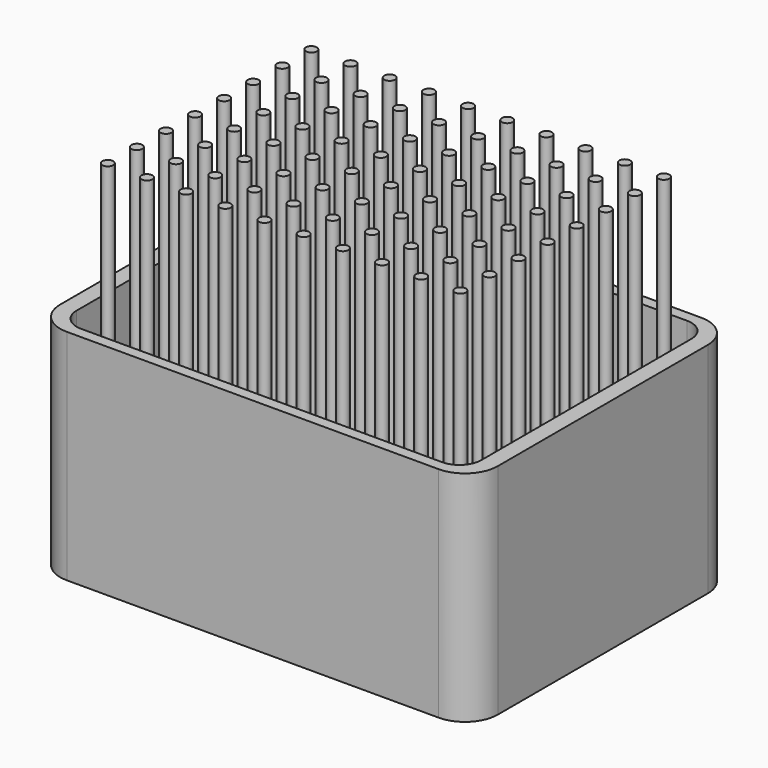
from build123d import *

# Parameters (mm, degrees)
F1_DEPTH = 6.35
F3_DEPTH = 50.8
F5_DEPTH = 76.2
F6_R     = 1.27
F7_DEPTH = 76.2


with BuildPart() as f1:
    # F0 (on Top) → F1 (new body)
    with BuildSketch(Plane.XY):
        with BuildLine():
            Line((43.18, 38.1), (-43.18, 38.1))
            ThreePointArc((-43.18, 38.1), (-48.5681536726, 35.8681536726), (-50.8, 30.48))
            Line((-50.8, 30.48), (-50.8, -30.48))
            ThreePointArc((-50.8, -30.48), (-48.5681536726, -35.8681536726), (-43.18, -38.1))
            Line((-43.18, -38.1), (43.18, -38.1))
            ThreePointArc((43.18, -38.1), (48.5681536726, -35.8681536726), (50.8, -30.48))
            Line((50.8, -30.48), (50.8, 30.48))
            ThreePointArc((50.8, 30.48), (48.5681536726, 35.8681536726), (43.18, 38.1))
        make_face()
    extrude(amount=F1_DEPTH)

    # F2 (on Top) → F3 (join)
    with BuildSketch(Plane.XY):
        with BuildLine():
            Line((-50.8, 30.48), (-50.8, -30.48))
            ThreePointArc((-50.8, -30.48), (-48.5681536726, -35.8681536726), (-43.18, -38.1))
            Line((-43.18, -38.1), (43.18, -38.1))
            ThreePointArc((43.18, -38.1), (48.5681536726, -35.8681536726), (50.8, -30.48))
            Line((50.8, -30.48), (50.8, 30.48))
            ThreePointArc((50.8, 30.48), (48.5681536726, 35.8681536726), (43.18, 38.1))
            Line((43.18, 38.1), (-43.18, 38.1))
            ThreePointArc((-43.18, 38.1), (-48.5681536726, 35.8681536726), (-50.8, 30.48))
        make_face()
        with BuildLine():
            Line((-46.99, -30.48), (-46.99, 30.48))
            ThreePointArc((-46.99, 30.48), (-45.5021024484, 34.0721024484), (-41.91, 35.56))
            Line((-41.91, 35.56), (41.91, 35.56))
            ThreePointArc((41.91, 35.56), (45.5021024484, 34.0721024484), (46.99, 30.48))
            Line((46.99, 30.48), (46.99, -30.48))
            ThreePointArc((46.99, -30.48), (45.5021024484, -34.0721024484), (41.91, -35.56))
            Line((41.91, -35.56), (-41.91, -35.56))
            ThreePointArc((-41.91, -35.56), (-45.5021024484, -34.0721024484), (-46.99, -30.48))
        make_face(mode=Mode.SUBTRACT)
    extrude(amount=F3_DEPTH)

    # F4 (on face) → F5 (join)
    with BuildSketch(Plane.XY.offset(6.35)):
        with BuildLine():
            Line((41.91, 35.56), (-41.91, 35.56))
            ThreePointArc((-41.91, 35.56), (-45.5021024484, 34.0721024484), (-46.99, 30.48))
            Line((-46.99, 30.48), (-46.99, -30.48))
            ThreePointArc((-46.99, -30.48), (-45.5021024484, -34.0721024484), (-41.91, -35.56))
            Line((-41.91, -35.56), (41.91, -35.56))
            ThreePointArc((41.91, -35.56), (45.5021024484, -34.0721024484), (46.99, -30.48))
            Line((46.99, -30.48), (46.99, 30.48))
            ThreePointArc((46.99, 30.48), (45.5021024484, 34.0721024484), (41.91, 35.56))
        make_face()
    extrude(amount=F5_DEPTH)

    # F6 (on face) → F7 (cut)
    with BuildSketch(Plane.XY.offset(82.55)):
        with BuildLine():
            Line((46.99, -30.48), (46.99, 30.48))
            ThreePointArc((46.99, 30.48), (45.5021024484, 34.0721024484), (41.91, 35.56))
            Line((41.91, 35.56), (-41.91, 35.56))
            ThreePointArc((-41.91, 35.56), (-45.5021024484, 34.0721024484), (-46.99, 30.48))
            Line((-46.99, 30.48), (-46.99, -30.48))
            ThreePointArc((-46.99, -30.48), (-45.5021024484, -34.0721024484), (-41.91, -35.56))
            Line((-41.91, -35.56), (41.91, -35.56))
            ThreePointArc((41.91, -35.56), (45.5021024484, -34.0721024484), (46.99, -30.48))
        make_face()
        with Locations((-40.6371347628, -29.3689621186)):
            Circle(F6_R, mode=Mode.SUBTRACT)
        with Locations((-31.6196572232, -29.2684558051)):
            Circle(F6_R, mode=Mode.SUBTRACT)
        with Locations((-40.5106123023, -21.0874684322)):
            Circle(F6_R, mode=Mode.SUBTRACT)
        with Locations((-31.4931347628, -20.9869621186)):
            Circle(F6_R, mode=Mode.SUBTRACT)
        with Locations((-22.6021796837, -29.1679494915)):
            Circle(F6_R, mode=Mode.SUBTRACT)
        with Locations((-13.5847021441, -29.0674431779)):
            Circle(F6_R, mode=Mode.SUBTRACT)
        with Locations((-4.5672246046, -28.9669368644)):
            Circle(F6_R, mode=Mode.SUBTRACT)
        with Locations((-22.4756572232, -20.8864558051)):
            Circle(F6_R, mode=Mode.SUBTRACT)
        with Locations((-13.4581796837, -20.7859494915)):
            Circle(F6_R, mode=Mode.SUBTRACT)
        with Locations((-4.4407021441, -20.6854431779)):
            Circle(F6_R, mode=Mode.SUBTRACT)
        with Locations((-40.3840898418, -12.8059747458)):
            Circle(F6_R, mode=Mode.SUBTRACT)
        with Locations((-31.3666123023, -12.7054684322)):
            Circle(F6_R, mode=Mode.SUBTRACT)
        with Locations((-40.2575673814, -4.5244810593)):
            Circle(F6_R, mode=Mode.SUBTRACT)
        with Locations((-31.2400898418, -4.4239747458)):
            Circle(F6_R, mode=Mode.SUBTRACT)
        with Locations((-22.3491347628, -12.6049621186)):
            Circle(F6_R, mode=Mode.SUBTRACT)
        with Locations((-13.3316572232, -12.5044558051)):
            Circle(F6_R, mode=Mode.SUBTRACT)
        with Locations((-4.3141796837, -12.4039494915)):
            Circle(F6_R, mode=Mode.SUBTRACT)
        with Locations((-22.2226123023, -4.3234684322)):
            Circle(F6_R, mode=Mode.SUBTRACT)
        with Locations((-13.2051347628, -4.2229621186)):
            Circle(F6_R, mode=Mode.SUBTRACT)
        with Locations((-4.1876572232, -4.1224558051)):
            Circle(F6_R, mode=Mode.SUBTRACT)
        with Locations((4.4502529349, -28.8664305508)):
            Circle(F6_R, mode=Mode.SUBTRACT)
        with Locations((13.4677304745, -28.7659242373)):
            Circle(F6_R, mode=Mode.SUBTRACT)
        with Locations((22.485208014, -28.6654179237)):
            Circle(F6_R, mode=Mode.SUBTRACT)
        with Locations((4.5767753954, -20.5849368644)):
            Circle(F6_R, mode=Mode.SUBTRACT)
        with Locations((13.5942529349, -20.4844305508)):
            Circle(F6_R, mode=Mode.SUBTRACT)
        with Locations((22.6117304745, -20.3839242373)):
            Circle(F6_R, mode=Mode.SUBTRACT)
        with Locations((31.5026855536, -28.5649116101)):
            Circle(F6_R, mode=Mode.SUBTRACT)
        with Locations((40.5201630931, -28.4644052966)):
            Circle(F6_R, mode=Mode.SUBTRACT)
        with Locations((31.629208014, -20.2834179237)):
            Circle(F6_R, mode=Mode.SUBTRACT)
        with Locations((40.6466855536, -20.1829116101)):
            Circle(F6_R, mode=Mode.SUBTRACT)
        with Locations((4.7032978559, -12.3034431779)):
            Circle(F6_R, mode=Mode.SUBTRACT)
        with Locations((13.7207753954, -12.2029368644)):
            Circle(F6_R, mode=Mode.SUBTRACT)
        with Locations((22.7382529349, -12.1024305508)):
            Circle(F6_R, mode=Mode.SUBTRACT)
        with Locations((4.8298203163, -4.0219494915)):
            Circle(F6_R, mode=Mode.SUBTRACT)
        with Locations((13.8472978559, -3.9214431779)):
            Circle(F6_R, mode=Mode.SUBTRACT)
        with Locations((22.8647753954, -3.8209368644)):
            Circle(F6_R, mode=Mode.SUBTRACT)
        with Locations((31.7557304745, -12.0019242373)):
            Circle(F6_R, mode=Mode.SUBTRACT)
        with Locations((40.773208014, -11.9014179237)):
            Circle(F6_R, mode=Mode.SUBTRACT)
        with Locations((31.8822529349, -3.7204305508)):
            Circle(F6_R, mode=Mode.SUBTRACT)
        with Locations((40.8997304745, -3.6199242373)):
            Circle(F6_R, mode=Mode.SUBTRACT)
        with Locations((-40.1310449209, 3.7570126271)):
            Circle(F6_R, mode=Mode.SUBTRACT)
        with Locations((-31.1135673814, 3.8575189407)):
            Circle(F6_R, mode=Mode.SUBTRACT)
        with Locations((-40.0045224605, 12.0385063136)):
            Circle(F6_R, mode=Mode.SUBTRACT)
        with Locations((-30.9870449209, 12.1390126271)):
            Circle(F6_R, mode=Mode.SUBTRACT)
        with Locations((-22.0960898418, 3.9580252542)):
            Circle(F6_R, mode=Mode.SUBTRACT)
        with Locations((-13.0786123023, 4.0585315678)):
            Circle(F6_R, mode=Mode.SUBTRACT)
        with Locations((-4.0611347628, 4.1590378814)):
            Circle(F6_R, mode=Mode.SUBTRACT)
        with Locations((-21.9695673814, 12.2395189407)):
            Circle(F6_R, mode=Mode.SUBTRACT)
        with Locations((-12.9520898418, 12.3400252542)):
            Circle(F6_R, mode=Mode.SUBTRACT)
        with Locations((-3.9346123023, 12.4405315678)):
            Circle(F6_R, mode=Mode.SUBTRACT)
        with Locations((-39.878, 20.32)):
            Circle(F6_R, mode=Mode.SUBTRACT)
        with Locations((-30.8605224605, 20.4205063136)):
            Circle(F6_R, mode=Mode.SUBTRACT)
        with Locations((-39.7514775395, 28.6014936864)):
            Circle(F6_R, mode=Mode.SUBTRACT)
        with Locations((-30.734, 28.702)):
            Circle(F6_R, mode=Mode.SUBTRACT)
        with Locations((-21.8430449209, 20.5210126271)):
            Circle(F6_R, mode=Mode.SUBTRACT)
        with Locations((-12.8255673814, 20.6215189407)):
            Circle(F6_R, mode=Mode.SUBTRACT)
        with Locations((-3.8080898418, 20.7220252542)):
            Circle(F6_R, mode=Mode.SUBTRACT)
        with Locations((-21.7165224605, 28.8025063136)):
            Circle(F6_R, mode=Mode.SUBTRACT)
        with Locations((-12.6990449209, 28.9030126271)):
            Circle(F6_R, mode=Mode.SUBTRACT)
        with Locations((-3.6815673814, 29.0035189407)):
            Circle(F6_R, mode=Mode.SUBTRACT)
        with Locations((4.9563427768, 4.2595441949)):
            Circle(F6_R, mode=Mode.SUBTRACT)
        with Locations((13.9738203163, 4.3600505085)):
            Circle(F6_R, mode=Mode.SUBTRACT)
        with Locations((22.9912978559, 4.4605568221)):
            Circle(F6_R, mode=Mode.SUBTRACT)
        with Locations((5.0828652372, 12.5410378814)):
            Circle(F6_R, mode=Mode.SUBTRACT)
        with Locations((14.1003427768, 12.6415441949)):
            Circle(F6_R, mode=Mode.SUBTRACT)
        with Locations((23.1178203163, 12.7420505085)):
            Circle(F6_R, mode=Mode.SUBTRACT)
        with Locations((32.0087753954, 4.5610631356)):
            Circle(F6_R, mode=Mode.SUBTRACT)
        with Locations((41.0262529349, 4.6615694492)):
            Circle(F6_R, mode=Mode.SUBTRACT)
        with Locations((32.1352978559, 12.8425568221)):
            Circle(F6_R, mode=Mode.SUBTRACT)
        with Locations((41.1527753954, 12.9430631356)):
            Circle(F6_R, mode=Mode.SUBTRACT)
        with Locations((5.2093876977, 20.8225315678)):
            Circle(F6_R, mode=Mode.SUBTRACT)
        with Locations((14.2268652372, 20.9230378814)):
            Circle(F6_R, mode=Mode.SUBTRACT)
        with Locations((23.2443427768, 21.0235441949)):
            Circle(F6_R, mode=Mode.SUBTRACT)
        with Locations((5.3359101582, 29.1040252542)):
            Circle(F6_R, mode=Mode.SUBTRACT)
        with Locations((14.3533876977, 29.2045315678)):
            Circle(F6_R, mode=Mode.SUBTRACT)
        with Locations((23.3708652372, 29.3050378814)):
            Circle(F6_R, mode=Mode.SUBTRACT)
        with Locations((32.2618203163, 21.1240505085)):
            Circle(F6_R, mode=Mode.SUBTRACT)
        with Locations((41.2792978559, 21.2245568221)):
            Circle(F6_R, mode=Mode.SUBTRACT)
        with Locations((32.3883427768, 29.4055441949)):
            Circle(F6_R, mode=Mode.SUBTRACT)
        with Locations((41.4058203163, 29.5060505085)):
            Circle(F6_R, mode=Mode.SUBTRACT)
    extrude(amount=-F7_DEPTH, mode=Mode.SUBTRACT)


solid = f1.part
